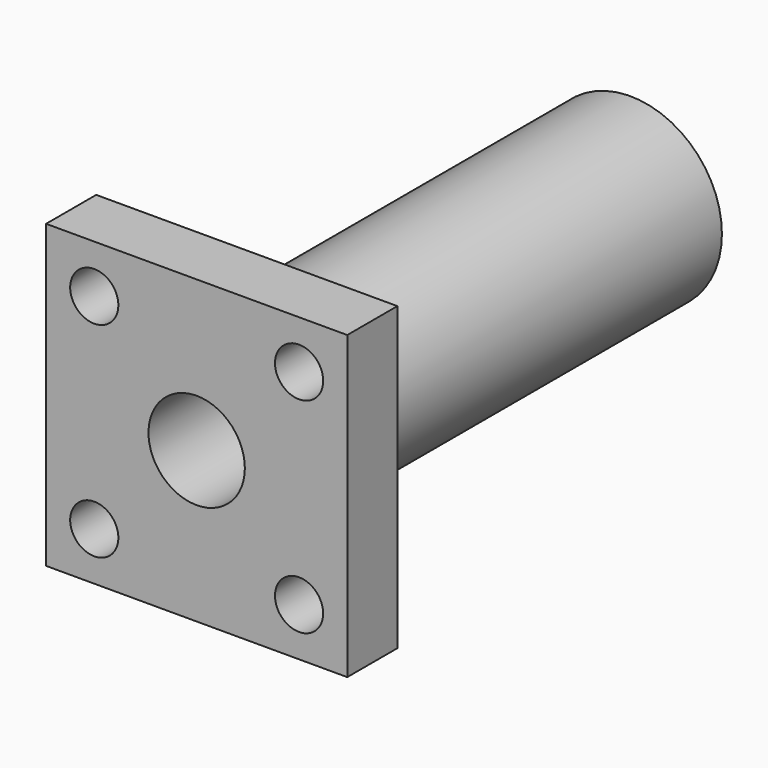
from build123d import *

# Parameters (mm, degrees)
CYLINDER086_R          = 2
CYLINDER086_DEPTH      = 10
CYLINDER087_R          = 2
CYLINDER087_DEPTH      = 10
CYLINDER085_R          = 2
CYLINDER085_DEPTH      = 10
CYLINDER084_R          = 2
CYLINDER084_DEPTH      = 10
CYLINDER083_R          = 4
CYLINDER083_DEPTH      = 60
CYLINDER088_R          = 7.6
CYLINDER088_DEPTH      = 40
BOX028_W               = 25
BOX028_H               = 25
BOX028_DEPTH           = 5.2
CUT067_PLACEMENT_ANGLE = 90


with BuildPart() as cylinder086:
    # Cylinder086 → Cylinder086 (new body)
    with BuildSketch(Plane(origin=(21, 21, -2), x_dir=(1, 0, 0), z_dir=(0, 0, 1))):
        Circle(CYLINDER086_R)
    extrude(amount=CYLINDER086_DEPTH)


with BuildPart() as cylinder087:
    # Cylinder087 → Cylinder087 (new body)
    with BuildSketch(Plane(origin=(21, 4, -2), x_dir=(1, 0, 0), z_dir=(0, 0, 1))):
        Circle(CYLINDER087_R)
    extrude(amount=CYLINDER087_DEPTH)


with BuildPart() as cylinder085:
    # Cylinder085 → Cylinder085 (new body)
    with BuildSketch(Plane(origin=(4, 21, -2), x_dir=(1, 0, 0), z_dir=(0, 0, 1))):
        Circle(CYLINDER085_R)
    extrude(amount=CYLINDER085_DEPTH)


with BuildPart() as cylinder084:
    # Cylinder084 → Cylinder084 (new body)
    with BuildSketch(Plane(origin=(4, 4, -2), x_dir=(1, 0, 0), z_dir=(0, 0, 1))):
        Circle(CYLINDER084_R)
    extrude(amount=CYLINDER084_DEPTH)


with BuildPart() as cylinder083:
    # Cylinder083 → Cylinder083 (new body)
    with BuildSketch(Plane(origin=(12.5, 12.5, -7), x_dir=(1, 0, 0), z_dir=(0, 0, 1))):
        Circle(CYLINDER083_R)
    extrude(amount=CYLINDER083_DEPTH)


with BuildPart() as cylinder088:
    # Cylinder088 → Cylinder088 (new body)
    with BuildSketch(Plane(origin=(12.5, 12.5, 5), x_dir=(1, 0, 0), z_dir=(0, 0, 1))):
        Circle(CYLINDER088_R)
    extrude(amount=CYLINDER088_DEPTH)


with BuildPart() as cut067:
    # Box028 → Box028 (new body)
    with BuildSketch(Plane.XY):
        with Locations((12.5, 12.5)):
            Rectangle(BOX028_W, BOX028_H)
    extrude(amount=BOX028_DEPTH)

    # Fusion035: union Cylinder088
    add(cylinder088.part)

    # Cut065: cut Cylinder083
    add(cylinder083.part, mode=Mode.SUBTRACT)

    # Cut066: cut Cylinder084
    add(cylinder084.part, mode=Mode.SUBTRACT)

    # Cut063: cut Cylinder085
    add(cylinder085.part, mode=Mode.SUBTRACT)

    # Cut064: cut Cylinder087
    add(cylinder087.part, mode=Mode.SUBTRACT)

    # Cut067: cut Cylinder086
    add(cylinder086.part, mode=Mode.SUBTRACT)


with BuildPart() as cut067_1:
    # Cut067 placement: moved
    add(cut067.part.moved(Location((-12.5, 0, 12.5))).rotate(Axis((-12.5, 0, 12.5), (-1, 0, 0)), CUT067_PLACEMENT_ANGLE))


solid = cut067_1.part
